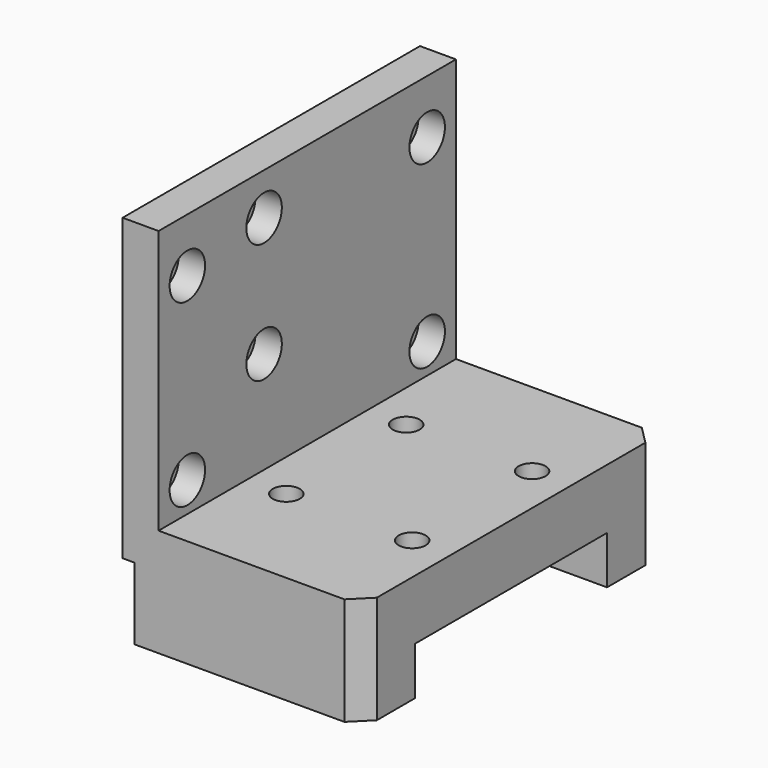
from build123d import *

# Parameters (mm, degrees)
PAD_DEPTH        = 62
HOLE_D           = 4.5
HOLE_DEPTH       = 25
HOLE_CBORE_D     = 7.4
HOLE_CBORE_DEPTH = 4.4
SKETCH069_R      = 2.25
HOLE006_DEPTH    = 60.001
POCKET022_DEPTH  = 4.5
SKETCH071_W      = 40
SKETCH071_H      = 40
POCKET023_DEPTH  = 8
CHAMFER_SIZE     = 3
CHAMFER018_SIZE  = 3


with BuildPart() as part:
    # Sketch → Pad (new body)
    with BuildSketch(Plane.XZ.offset(-19)):
        Polygon((76, 15), (76, -35), (78, -35), (78, -47), (116, -47), (116, -29), (82, -29), (82, 15), align=None)
    extrude(amount=-PAD_DEPTH)

    # Hole
    with Locations(Plane.YZ.offset(82)):
        with Locations((25, -24), (25, 6), (41, 8), (41, -12), (75, 6), (75, -24)):
            CounterBoreHole(HOLE_D / 2, HOLE_CBORE_D / 2, HOLE_CBORE_DEPTH, depth=HOLE_DEPTH)

    # Sketch069 → Hole006 (cut, through all)
    with BuildSketch(Plane.XY.offset(-45)):
        with Locations((88.5, 62.5)):
            Circle(SKETCH069_R)
        with Locations((109.5, 37.5)):
            Circle(SKETCH069_R)
        with Locations((109.5, 62.5)):
            Circle(SKETCH069_R)
        with Locations((88.5, 37.5)):
            Circle(SKETCH069_R)
    extrude(amount=HOLE006_DEPTH, mode=Mode.SUBTRACT)

    # Sketch070 → Pocket022 (cut)
    with BuildSketch(Plane.XY.offset(-39)):
        Polygon((92.1, 64.578461), (88.5, 66.656922), (84.9, 64.578461), (84.9, 60.421539), (88.5, 58.343078), (92.1, 60.421539), align=None)
        Polygon((113.1, 64.578461), (109.5, 66.656922), (105.9, 64.578461), (105.9, 60.421539), (109.5, 58.343078), (113.1, 60.421539), align=None)
        Polygon((113.1, 39.578461), (109.5, 41.656922), (105.9, 39.578461), (105.9, 35.421539), (109.5, 33.343078), (113.1, 35.421539), align=None)
        Polygon((92.1, 39.578461), (88.5, 41.656922), (84.9, 39.578461), (84.9, 35.421539), (88.5, 33.343078), (92.1, 35.421539), align=None)
    extrude(amount=POCKET022_DEPTH, mode=Mode.SUBTRACT)

    # Sketch071 → Pocket023 (cut)
    with BuildSketch(Plane.XY.offset(-47)):
        with Locations((96, 50)):
            Rectangle(SKETCH071_W, SKETCH071_H)
    extrude(amount=POCKET023_DEPTH, mode=Mode.SUBTRACT)

    # Chamfer
    chamfer_edges = [part.edges().sort_by_distance(p)[0] for p in [
        (116, 81, -38),
    ]]
    chamfer(chamfer_edges, length=CHAMFER_SIZE)

    # Chamfer018
    chamfer018_edges = [part.edges().sort_by_distance(p)[0] for p in [
        (116, 19, -38),
    ]]
    chamfer(chamfer018_edges, length=CHAMFER018_SIZE)


with BuildPart() as part_1:
    # Body placement: moved
    add(part.part.moved(Location((2, 0, 0))))


solid = part_1.part
